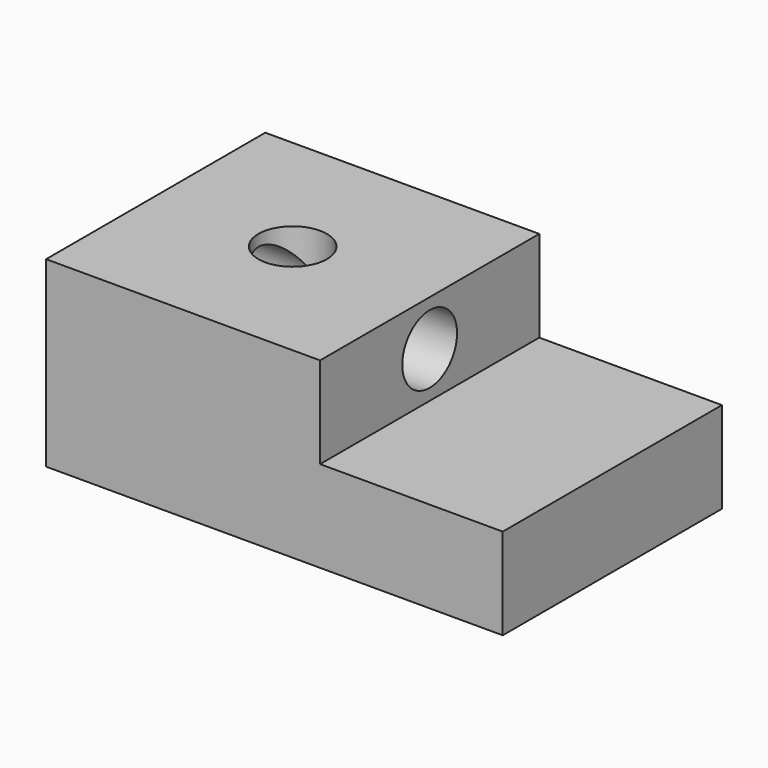
from build123d import *

# Parameters (mm, degrees)
F1_DEPTH = 38.1
F3_D     = 19.05
F5_D     = 19.05


with BuildPart() as f1:
    # F0 (on Front) → F1 (new body, symmetric)
    with BuildSketch(Plane.XZ):
        Polygon((0, 50.8), (0, 0), (127, 0), (127, 25.4), (76.2, 25.4), (76.2, 50.8), align=None)
    extrude(amount=F1_DEPTH, both=True)

    # F3 (through all)
    with Locations(Plane.XY.offset(50.8)):
        with Locations((38.1, 0)):
            Hole(F3_D / 2)

    # F5 (through all)
    with Locations(Plane.YZ.offset(76.2)):
        with Locations((0, 38.1)):
            Hole(F5_D / 2)


solid = f1.part
